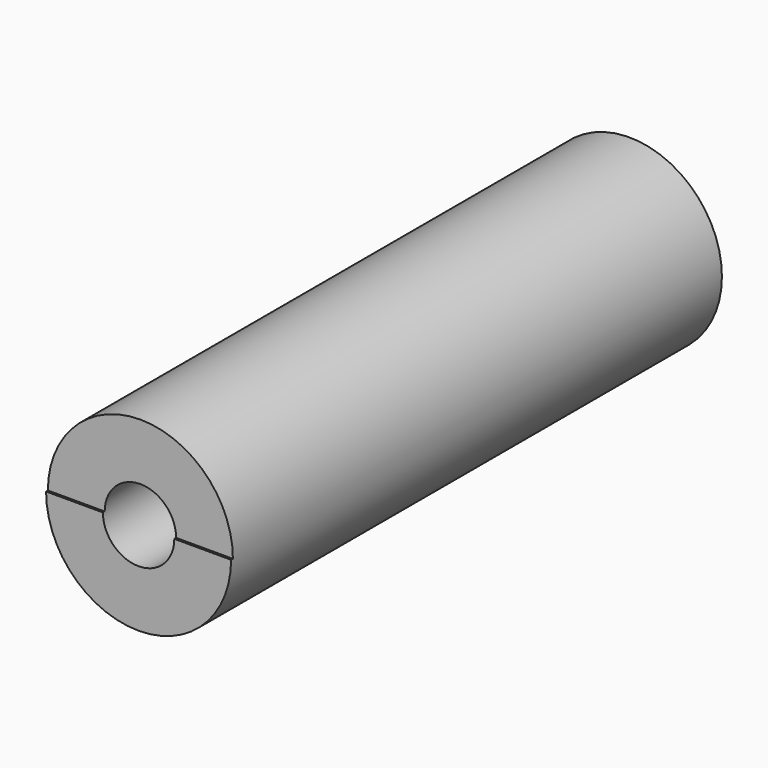
from build123d import *

# Parameters (mm, degrees)
F0_R     = 82.2325
F1_DEPTH = 545.338
F2_R     = 31.75
F3_DEPTH = 385.318
F4_R     = 0.889
F6_DEPTH = 2


with BuildPart() as f1:
    # F0 (on Front) → F1 (new body)
    with BuildSketch(Plane.XZ):
        Circle(F0_R)
    extrude(amount=F1_DEPTH)

    # F2 (on face) → F3 (cut)
    with BuildSketch(Plane.XZ.offset(545.338)):
        Circle(F2_R)
    extrude(amount=-F3_DEPTH, mode=Mode.SUBTRACT)

    # F4
    f4_edges = [f1.edges().sort_by_distance(p)[0] for p in [
        (-31.75, -160.02, 0),
    ]]
    fillet(f4_edges, radius=F4_R)

    # F5 (on face) → F6 (cut)
    with BuildSketch(Plane.XZ.offset(545.338)):
        Polygon((-94.683126, 74.995518), (-90.933107, 0), (99.84915, 0), (85.317813, 66.08922), (21.098729, 103.589416), (-59.526693, 95.151864), align=None)
    extrude(amount=-F6_DEPTH, mode=Mode.SUBTRACT)


solid = f1.part
